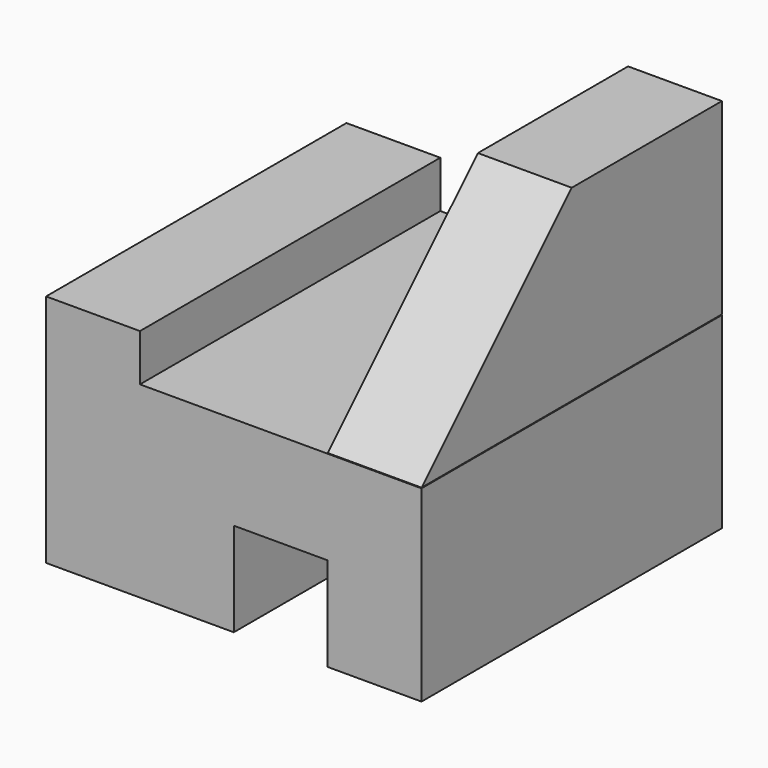
from build123d import *

# Parameters (mm, degrees)
F1_DEPTH = 101.6
F3_DEPTH = 25.4


with BuildPart() as f1:
    # F0 (on Front) → F1 (new body)
    with BuildSketch(Plane.XZ):
        Polygon((-45.31372, 52.503365), (-45.31372, -10.996635), (5.48628, -10.996635), (5.48628, 14.403365), (30.88628, 14.403365), (30.88628, -10.996635), (56.28628, -10.996635), (56.28628, 39.803365), (30.88628, 39.803365), (-19.91372, 39.803365), (-19.91372, 52.503365), align=None)
    extrude(amount=F1_DEPTH)


with BuildPart() as f3:
    # F2 (on Right) → F3 (new body)
    with BuildSketch(Plane.YZ):
        Polygon((-107.296944, -64.842224), (-5.696944, -64.842224), (-5.696944, -14.042224), (-56.496944, -14.042224), align=None)
    extrude(amount=F3_DEPTH)


with BuildPart() as f3_1:
    # F4: moved
    add(f3.part.moved(Location((30.988, 5.588, 104.902))))


solid = Compound([f1.part, f3_1.part])
